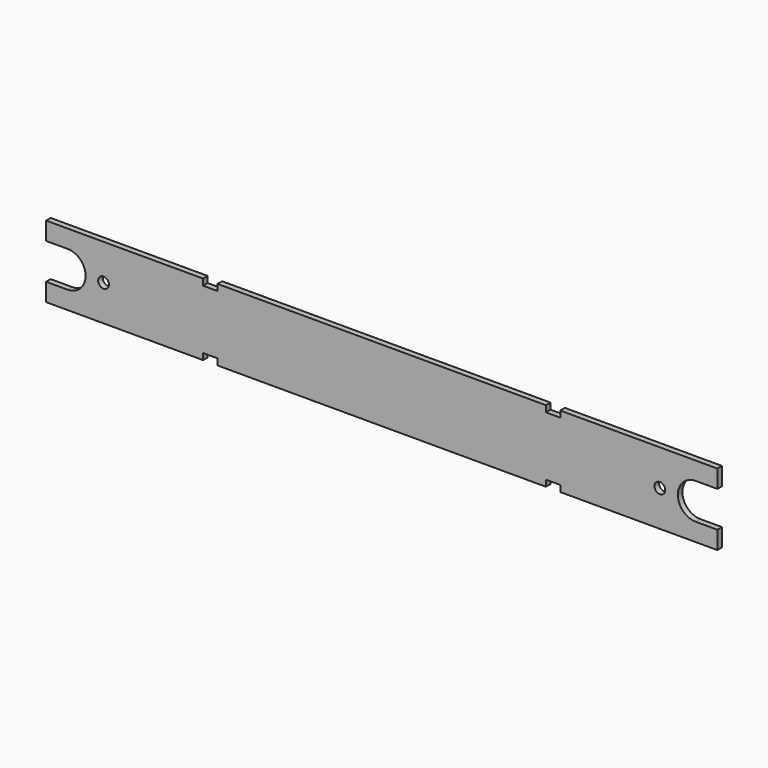
from build123d import *

# Parameters (mm, degrees)
F0_R     = 1.5
F1_DEPTH = 1.6


with BuildPart() as f1:
    # F0 (on Front) → F1 (new body)
    with BuildSketch(Plane.XZ):
        with BuildLine():
            Line((-45.73225, 8.25), (-49.73225, 8.25))
            Line((-49.73225, 8.25), (-49.73225, 10))
            Line((-49.73225, 10), (-93.4645, 10))
            Line((-93.4645, 10), (-93.4645, 5))
            Line((-93.4645, 5), (-87.4645, 5))
            ThreePointArc((-87.4645, 5), (-83.928966, 3.535534), (-82.4645, 0))
            ThreePointArc((-82.4645, 0), (-83.928966, -3.535534), (-87.4645, -5))
            Line((-87.4645, -5), (-93.4645, -5))
            Line((-93.4645, -5), (-93.4645, -10))
            Line((-93.4645, -10), (-49.73225, -10))
            Line((-49.73225, -10), (-49.73225, -8.25))
            Line((-49.73225, -8.25), (-45.73225, -8.25))
            Line((-45.73225, -8.25), (-45.73225, -10))
            Line((-45.73225, -10), (0, -10))
            Line((0, -10), (45.73225, -10))
            Line((45.73225, -10), (45.73225, -8.25))
            Line((45.73225, -8.25), (49.73225, -8.25))
            Line((49.73225, -8.25), (49.73225, -10))
            Line((49.73225, -10), (93.4645, -10))
            Line((93.4645, -10), (93.4645, -5))
            Line((93.4645, -5), (87.4645, -5))
            ThreePointArc((87.4645, -5), (83.928966, -3.535534), (82.4645, 0))
            ThreePointArc((82.4645, 0), (83.928966, 3.535534), (87.4645, 5))
            Line((87.4645, 5), (93.4645, 5))
            Line((93.4645, 5), (93.4645, 10))
            Line((93.4645, 10), (49.73225, 10))
            Line((49.73225, 10), (49.73225, 8.25))
            Line((49.73225, 8.25), (45.73225, 8.25))
            Line((45.73225, 8.25), (45.73225, 10))
            Line((45.73225, 10), (0, 10))
            Line((0, 10), (-45.73225, 10))
            Line((-45.73225, 10), (-45.73225, 8.25))
        make_face()
        with Locations((-77.4645, 0)):
            Circle(F0_R, mode=Mode.SUBTRACT)
        with Locations((77.4645, 0)):
            Circle(F0_R, mode=Mode.SUBTRACT)
    extrude(amount=F1_DEPTH)


solid = f1.part
